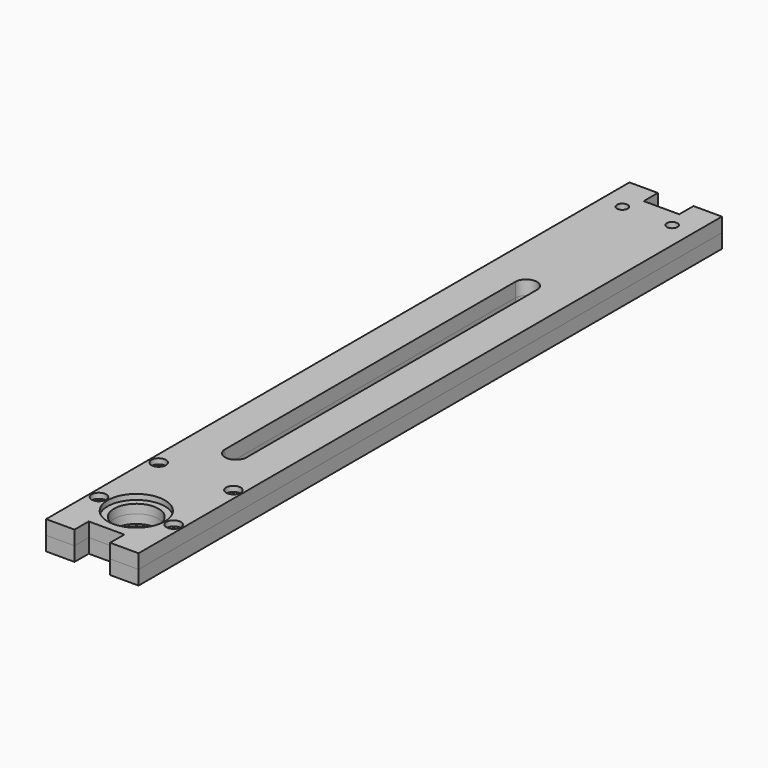
from build123d import *

# Parameters (mm, degrees)
F0_R     = 1
F0_R_2   = 1.5
F1_DEPTH = 4
F2_R     = 8.05
F2_R_2   = 2.05
F3_DEPTH = 1.5
F4_W     = 10
F4_H     = 5
F5_DEPTH = 4.001
F6_W     = 8
F6_H     = 5
F7_DEPTH = 4


with BuildPart() as f1:
    # F0 (on Top) → F1 (new body)
    with BuildSketch(Plane.XY):
        with BuildLine():
            ThreePointArc((-6.25, -86), (0, -79.75), (6.25, -86))
            Line((6.25, -86), (6.25, -101.45))
            Line((6.25, -101.45), (13, -101.45))
            Line((13, -101.45), (13, 98.55))
            Line((13, 98.55), (0, 98.55))
            Line((0, 98.55), (-13, 98.55))
            Line((-13, 98.55), (-13, -101.45))
            Line((-13, -101.45), (-6.25, -101.45))
            Line((-6.25, -101.45), (-6.25, -86))
        make_face()
        with Locations((-10.5, -86)):
            Circle(F0_R, mode=Mode.SUBTRACT)
        with Locations((-10.5, -65)):
            Circle(F0_R, mode=Mode.SUBTRACT)
        with Locations((10.5, -86)):
            Circle(F0_R, mode=Mode.SUBTRACT)
        with Locations((10.5, -65)):
            Circle(F0_R, mode=Mode.SUBTRACT)
        with Locations((-7, 93.55)):
            Circle(F0_R_2, mode=Mode.SUBTRACT)
        with BuildLine():
            ThreePointArc((-3.05, 51), (0, 54.05), (3.05, 51))
            Line((3.05, 51), (3.05, -51))
            ThreePointArc((3.05, -51), (0, -54.05), (-3.05, -51))
            Line((-3.05, -51), (-3.05, 51))
        make_face(mode=Mode.SUBTRACT)
        with Locations((7, 93.55)):
            Circle(F0_R_2, mode=Mode.SUBTRACT)
        with BuildLine():
            Line((6.25, -101.45), (6.25, -86))
            ThreePointArc((6.25, -86), (0, -92.25), (-6.25, -86))
            Line((-6.25, -86), (-6.25, -101.45))
            Line((-6.25, -101.45), (6.25, -101.45))
        make_face()
    extrude(amount=F1_DEPTH)

    # F2 (on face) → F3 (cut)
    with BuildSketch(Plane.XY.offset(4)):
        with Locations((0, -86)):
            Circle(F2_R)
        with Locations((-10.5, -86)):
            Circle(F2_R_2)
        with Locations((-10.5, -65)):
            Circle(F2_R_2)
        with Locations((10.5, -65)):
            Circle(F2_R_2)
        with Locations((10.5, -86)):
            Circle(F2_R_2)
    extrude(amount=-F3_DEPTH, mode=Mode.SUBTRACT)

    # F4 (on face) → F5 (cut, through all)
    with BuildSketch(Plane.XY.offset(4)):
        with Locations((0, -98.95)):
            Rectangle(F4_W, F4_H)
    extrude(amount=-F5_DEPTH, mode=Mode.SUBTRACT)

    # F6 (on face) → F7 (join)
    with BuildSketch(Plane.XY.offset(4)):
        with Locations((-9, 101.05)):
            Rectangle(F6_W, F6_H)
        with Locations((9, 101.05)):
            Rectangle(F6_W, F6_H)
    extrude(amount=-F7_DEPTH)


with BuildPart() as f8_1:
    # F8: instance of F1
    add(f1.part.mirror(Plane.XY))


solid = Compound([f1.part, f8_1.part])
